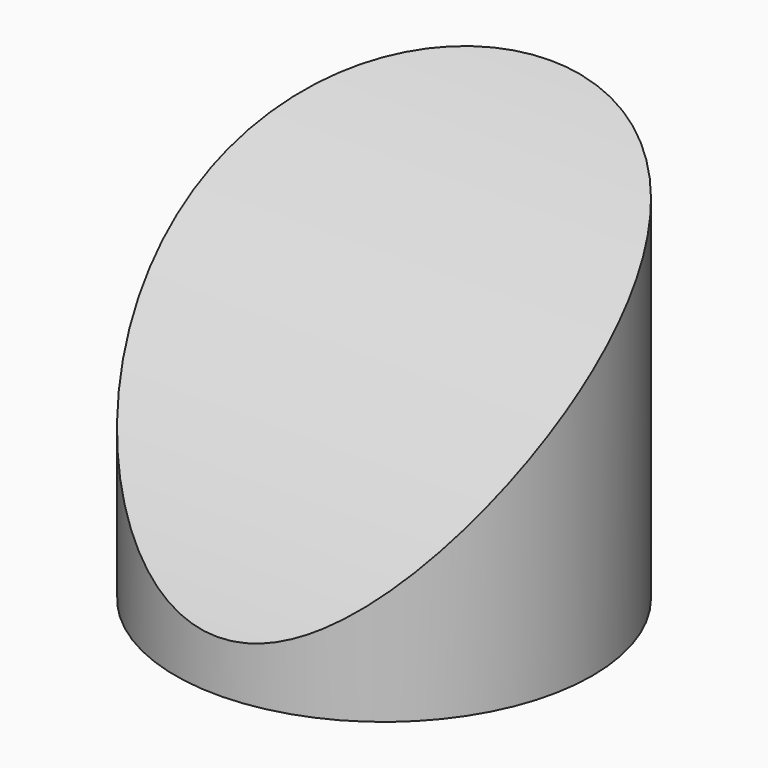
from build123d import *

# Parameters (mm, degrees)
F0_R          = 5
F1_DEPTH      = 25
F2_R          = 100
F2_R_2        = 23.15
F3_DEPTH      = 25
F3_DEPTH_BACK = 25


with BuildPart() as f1:
    # F0 (on Top) → F1 (new body)
    with BuildSketch(Plane.XY):
        Circle(F0_R)
    extrude(amount=F1_DEPTH)

    # F2 (on Right) → F3 (cut, two sides)
    with BuildSketch(Plane.YZ) as f3_sk:
        with Locations((14, -12)):
            Circle(F2_R)
        with Locations((14, -12)):
            Circle(F2_R_2, mode=Mode.SUBTRACT)
    extrude(amount=-F3_DEPTH, mode=Mode.SUBTRACT)
    extrude(f3_sk.sketch, amount=F3_DEPTH_BACK, mode=Mode.SUBTRACT)


solid = f1.part
